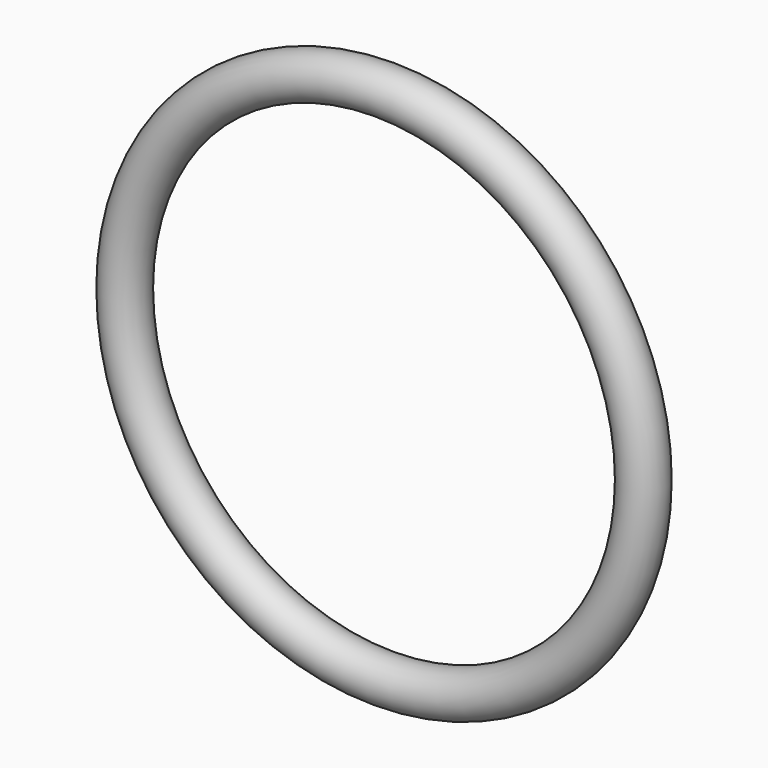
from build123d import *

# Parameters (mm, degrees)
F1_R = 5.65


with BuildPart() as f2:
    # F2: sweep along a path in F0
    with BuildLine(Plane.XZ) as f2_path:
        CenterArc((0, 0), 66, 0, 360)
    # F1 (on Right) → F2 (sweep)
    with BuildSketch(Plane.YZ):
        with Locations((0, -66)):
            Circle(F1_R)
    sweep(path=f2_path.line)


solid = f2.part
